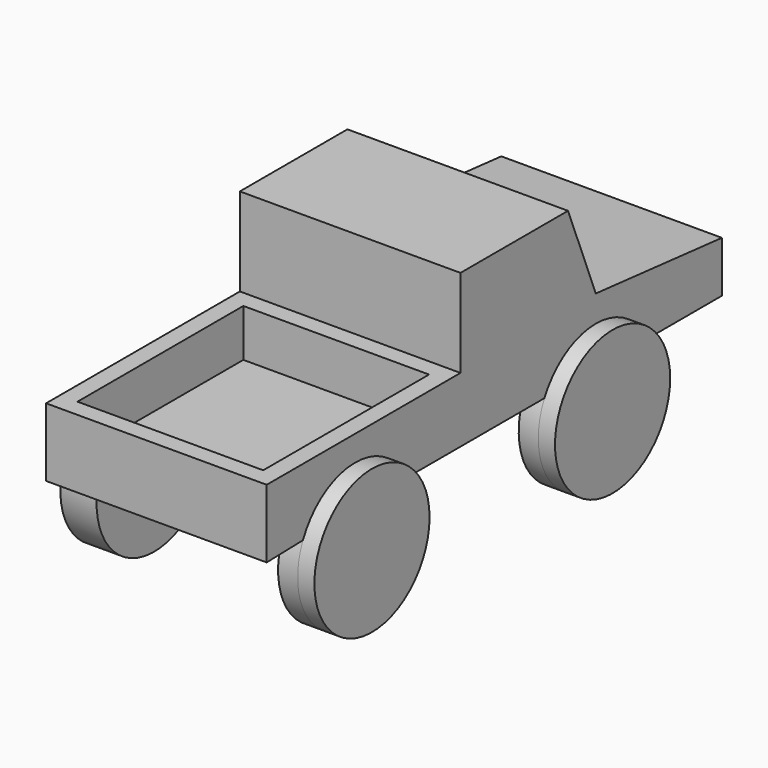
from build123d import *

# Parameters (mm, degrees)
F1_DEPTH      = 40.132
F2_R          = 13.093188
F3_DEPTH      = 3.048
F3_DEPTH_BACK = 3.556
F7_W          = 33.782
F7_H          = 37.713479
F8_DEPTH      = 8.636


with BuildPart() as f1:
    # F0 (on Right) → F1 (new body)
    with BuildSketch(Plane.YZ):
        Polygon((-79.37751, 10.118734), (-54.077905, 10.751224), (24.140039, 10.751224), (24.140039, 20.027746), (-4.532847, 22.768537), (-10.857747, 38.58079), (-35.314031, 38.58079), (-35.314031, 22.557706), (-79.37751, 22.557706), align=None)
    extrude(amount=F1_DEPTH)

    # F2 (on face) → F3 (join, two sides)
    with BuildSketch(Plane.YZ.offset(40.132)) as f3_sk:
        with Locations((-59.244439, 4.847982)):
            Circle(F2_R)
        with Locations((-4.532847, 4.847982)):
            Circle(F2_R)
    extrude(amount=F3_DEPTH)
    extrude(f3_sk.sketch, amount=-F3_DEPTH_BACK)

    # F6: F1 across plane


with BuildPart() as f1_1:
    add(f1.part)
    add(f1.part.mirror(Plane(origin=(20.066, -10.857747, 38.58079), x_dir=(0, 1, 0), z_dir=(1, 0, 0))))

    # F7 (on face) → F8 (cut)
    with BuildSketch(Plane.XY.offset(22.557706)):
        with Locations((20.066, -57.34577)):
            Rectangle(F7_W, F7_H)
    extrude(amount=-F8_DEPTH, mode=Mode.SUBTRACT)


solid = f1_1.part
